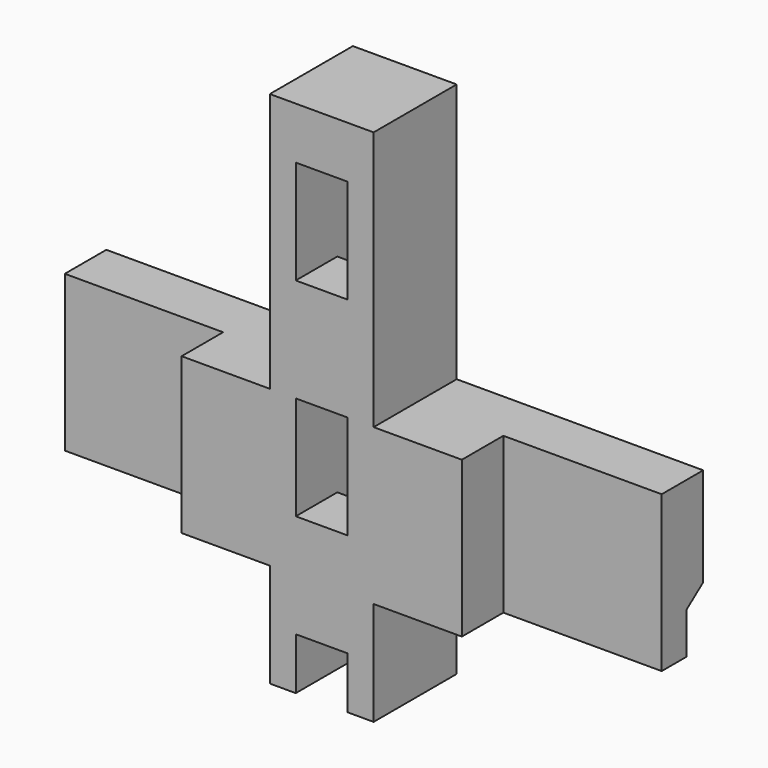
from build123d import *

# Parameters (mm, degrees)
F1_DEPTH  = 20
F2_W      = 30.5
F2_H      = 10
F3_DEPTH  = 30
F4_W      = 30.5
F4_H      = 10
F5_DEPTH  = 30
F7_DEPTH  = 47.5
F8_W      = 10
F8_H      = 20
F8_H_2    = 10
F9_DEPTH  = 20
F10_W     = 10
F10_H     = 10
F11_DEPTH = 10
F13_DEPTH = 150


with BuildPart() as f1:
    # F0 (on Front) → F1 (new body)
    with BuildSketch(Plane.XZ):
        Polygon((-10, 0), (0, 0), (0, 100), (-10, 100), (-10, 50), (-57.5, 50), (-57.5, 20), (-10, 20), align=None)
        Polygon((0, 100), (0, 0), (10, 0), (10, 20), (57.5, 20), (57.5, 50), (10, 50), (10, 100), align=None)
    extrude(amount=F1_DEPTH)

    # F2 (on face) → F3 (cut, through all)
    with BuildSketch(Plane(origin=(0, 0, 20), x_dir=(1, 0, 0), z_dir=(0, 0, -1))):
        with Locations((-42.25, 15)):
            Rectangle(F2_W, F2_H)
    extrude(amount=-F3_DEPTH, mode=Mode.SUBTRACT)

    # F4 (on face) → F5 (cut, through all)
    with BuildSketch(Plane(origin=(0, 0, 20), x_dir=(1, 0, 0), z_dir=(0, 0, -1))):
        with Locations((42.25, 15)):
            Rectangle(F4_W, F4_H)
    extrude(amount=-F5_DEPTH, mode=Mode.SUBTRACT)

    # F6 (on face) → F7 (cut, through all)
    with BuildSketch(Plane(origin=(-57.5, 0, 0), x_dir=(0, -1, 0), z_dir=(-1, 0, 0))):
        Polygon((0, 28), (0, 20), (4, 20), (4, 28), (0, 31), align=None)
    extrude(amount=-F7_DEPTH, mode=Mode.SUBTRACT)

    # F8 (on face) → F9 (cut, through all)
    with BuildSketch(Plane.XZ.offset(20)):
        with Locations((0, 80)):
            Rectangle(F8_W, F8_H)
        with Locations((0, 40)):
            Rectangle(F8_W, F8_H)
        with Locations((0, 5)):
            Rectangle(F8_W, F8_H_2)
    extrude(amount=-F9_DEPTH, mode=Mode.SUBTRACT)

    # F10 (on face) → F11 (cut)
    with BuildSketch(Plane(origin=(0, 0, 0), x_dir=(-1, 0, 0), z_dir=(0, 1, 0))):
        with Locations((0, 65)):
            Rectangle(F10_W, F10_H)
        with Locations((0, 25)):
            Rectangle(F10_W, F10_H)
    extrude(amount=-F11_DEPTH, mode=Mode.SUBTRACT)

    # F12 (on face) → F13 (cut)
    with BuildSketch(Plane.YZ.offset(57.5)):
        Polygon((-4, 20), (0, 20), (0, 28), (0, 31), (-4, 28), align=None)
    extrude(amount=-F13_DEPTH, mode=Mode.SUBTRACT)


solid = f1.part
